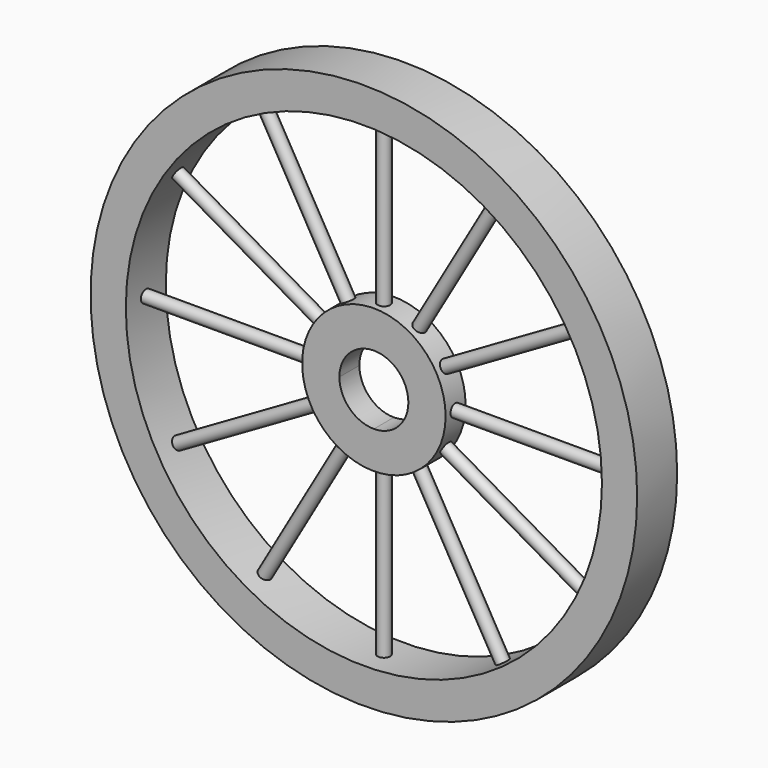
from build123d import *

# Parameters (mm, degrees)
F0_R     = 18.2245
F1_DEPTH = 3.175
F0_R_2   = 69.4436
F0_R_3   = 60.4901
F2_DEPTH = 6.35
F4_R     = 1.5875
F5_DEPTH = 59.1312
F6_COUNT = 12


with BuildPart() as f1:
    # F0 (on Front) → F1 (new body, symmetric)
    with BuildSketch(Plane.XZ):
        Circle(F0_R)
        with BuildLine():
            ThreePointArc((0, 8.763), (6.196377, 6.196377), (8.763, 0))
            ThreePointArc((8.763, 0), (6.196377, -6.196377), (0, -8.763))
            ThreePointArc((0, -8.763), (-6.196377, -6.196377), (-8.763, 0))
            ThreePointArc((-8.763, 0), (-6.196377, 6.196377), (0, 8.763))
        make_face(mode=Mode.SUBTRACT)
    extrude(amount=F1_DEPTH, both=True)


with BuildPart() as f2:
    # F0 (on Front) → F2 (new body, symmetric)
    with BuildSketch(Plane.XZ):
        Circle(F0_R_2)
        Circle(F0_R_3, mode=Mode.SUBTRACT)
    extrude(amount=F2_DEPTH, both=True)


with BuildPart() as f5:
    # F4 (on offset) → F5 (new body)
    with BuildSketch(Plane.YZ.offset(68.9356)):
        Circle(F4_R)
    extrude(amount=-F5_DEPTH)


with BuildPart() as f6_1:
    # F6: instance of F5
    add(f5.part.rotate(Axis((0, -3.175, 0), (0, -1, 0)), 1 * 360 / F6_COUNT))


with BuildPart() as f6_2:
    # F6: instance of F5
    add(f5.part.rotate(Axis((0, -3.175, 0), (0, -1, 0)), 2 * 360 / F6_COUNT))


with BuildPart() as f6_3:
    # F6: instance of F5
    add(f5.part.rotate(Axis((0, -3.175, 0), (0, -1, 0)), 3 * 360 / F6_COUNT))


with BuildPart() as f6_4:
    # F6: instance of F5
    add(f5.part.rotate(Axis((0, -3.175, 0), (0, -1, 0)), 4 * 360 / F6_COUNT))


with BuildPart() as f6_5:
    # F6: instance of F5
    add(f5.part.rotate(Axis((0, -3.175, 0), (0, -1, 0)), 5 * 360 / F6_COUNT))


with BuildPart() as f6_6:
    # F6: instance of F5
    add(f5.part.rotate(Axis((0, -3.175, 0), (0, -1, 0)), 6 * 360 / F6_COUNT))


with BuildPart() as f6_7:
    # F6: instance of F5
    add(f5.part.rotate(Axis((0, -3.175, 0), (0, -1, 0)), 7 * 360 / F6_COUNT))


with BuildPart() as f6_8:
    # F6: instance of F5
    add(f5.part.rotate(Axis((0, -3.175, 0), (0, -1, 0)), 8 * 360 / F6_COUNT))


with BuildPart() as f6_9:
    # F6: instance of F5
    add(f5.part.rotate(Axis((0, -3.175, 0), (0, -1, 0)), 9 * 360 / F6_COUNT))


with BuildPart() as f6_10:
    # F6: instance of F5
    add(f5.part.rotate(Axis((0, -3.175, 0), (0, -1, 0)), 10 * 360 / F6_COUNT))


with BuildPart() as f6_11:
    # F6: instance of F5
    add(f5.part.rotate(Axis((0, -3.175, 0), (0, -1, 0)), 11 * 360 / F6_COUNT))


solid = Compound([f1.part, f2.part, f5.part, f6_1.part, f6_2.part, f6_3.part, f6_4.part, f6_5.part, f6_6.part, f6_7.part, f6_8.part, f6_9.part, f6_10.part, f6_11.part])
